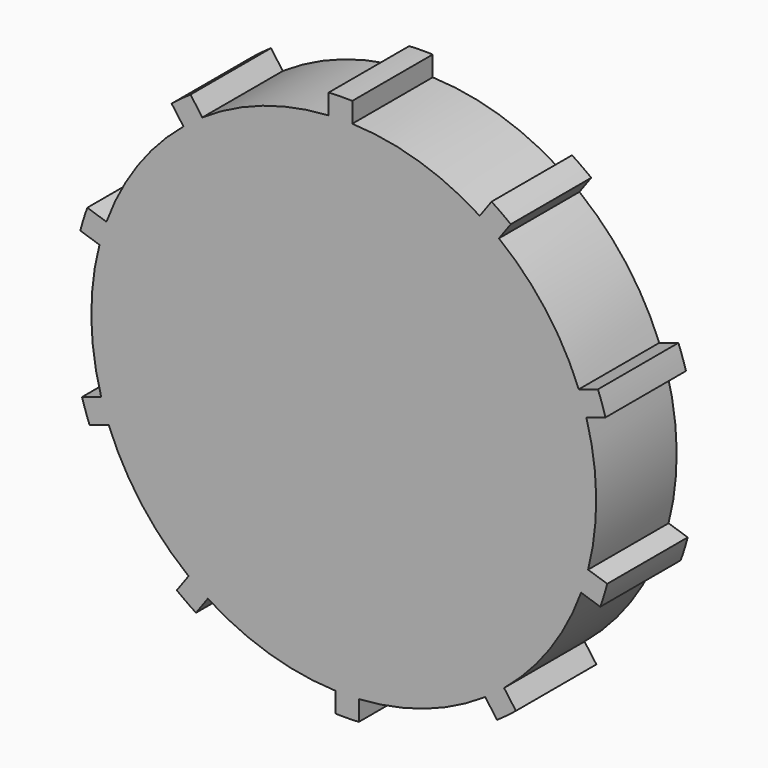
from build123d import *

# Parameters (mm, degrees)
F1_DEPTH = 25


with BuildPart() as f1:
    # F0 (on Front) → F1 (new body)
    with BuildSketch(Plane.XZ):
        with BuildLine():
            Line((65.492761, -17.343072), (60.729616, -15.795433))
            ThreePointArc((60.729616, -15.795433), (62.744833, 0.817283), (60.297596, 17.371872))
            Line((60.297596, 17.371872), (65.055376, 18.917769))
            ThreePointArc((65.055376, 18.917769), (64.177027, 21.711589), (63.178759, 24.464839))
            Line((63.178759, 24.464839), (58.415614, 22.917199))
            ThreePointArc((58.415614, 22.917199), (50.281249, 37.541683), (38.570849, 49.496177))
            Line((38.570849, 49.496177), (41.511319, 53.543387))
            ThreePointArc((41.511319, 53.543387), (39.158554, 55.287354), (36.732618, 56.928013))
            Line((36.732618, 56.928013), (33.788833, 52.87624))
            ThreePointArc((33.788833, 52.87624), (18.611938, 59.926436), (2.111349, 62.714625))
            Line((2.111349, 62.714625), (2.111349, 65.215938))
            Line((2.111349, 65.215938), (2.111349, 67.717251))
            ThreePointArc((2.111349, 67.717251), (-0.817156, 67.74523), (-3.744134, 67.646621))
            Line((-3.744134, 67.646621), (-3.744134, 62.638354))
            ThreePointArc((-3.744134, 62.638354), (-20.166502, 59.421328), (-35.154614, 51.978217))
            Line((-35.154614, 51.978217), (-38.095084, 56.025427))
            ThreePointArc((-38.095084, 56.025427), (-40.48074, 54.32673), (-42.790755, 52.526519))
            Line((-42.790755, 52.526519), (-39.846969, 48.474746))
            ThreePointArc((-39.846969, 48.474746), (-51.242023, 36.219292), (-58.99271, 21.387897))
            Line((-58.99271, 21.387897), (-63.75049, 22.933794))
            ThreePointArc((-63.75049, 22.933794), (-64.682057, 20.157266), (-65.492761, 17.343072))
            Line((-65.492761, 17.343072), (-60.729616, 15.795433))
            ThreePointArc((-60.729616, 15.795433), (-62.744833, -0.817283), (-60.297596, -17.371872))
            Line((-60.297596, -17.371872), (-65.055376, -18.917769))
            ThreePointArc((-65.055376, -18.917769), (-64.177027, -21.711589), (-63.178759, -24.464839))
            Line((-63.178759, -24.464839), (-58.415614, -22.917199))
            ThreePointArc((-58.415614, -22.917199), (-50.281249, -37.541683), (-38.570849, -49.496177))
            Line((-38.570849, -49.496177), (-41.511319, -53.543387))
            ThreePointArc((-41.511319, -53.543387), (-39.158554, -55.287354), (-36.732618, -56.928013))
            Line((-36.732618, -56.928013), (-33.788833, -52.87624))
            ThreePointArc((-33.788833, -52.87624), (-18.611938, -59.926436), (-2.111349, -62.714625))
            Line((-2.111349, -62.714625), (-2.111349, -67.717251))
            ThreePointArc((-2.111349, -67.717251), (0.817156, -67.74523), (3.744134, -67.646621))
            Line((3.744134, -67.646621), (3.744134, -62.638354))
            ThreePointArc((3.744134, -62.638354), (20.166502, -59.421328), (35.154614, -51.978217))
            Line((35.154614, -51.978217), (38.095084, -56.025427))
            ThreePointArc((38.095084, -56.025427), (40.48074, -54.32673), (42.790755, -52.526519))
            Line((42.790755, -52.526519), (39.846969, -48.474746))
            ThreePointArc((39.846969, -48.474746), (51.242023, -36.219292), (58.99271, -21.387897))
            Line((58.99271, -21.387897), (63.75049, -22.933794))
            ThreePointArc((63.75049, -22.933794), (64.682057, -20.157266), (65.492761, -17.343072))
        make_face()
    extrude(amount=F1_DEPTH)


solid = f1.part
